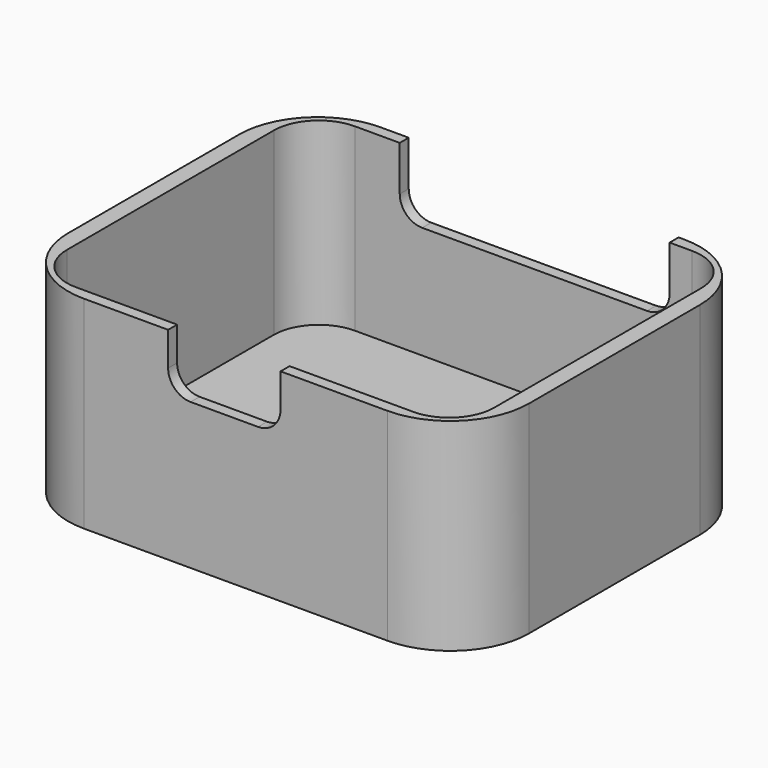
from build123d import *

# Parameters (mm, degrees)
PAD_DEPTH       = 18
POCKET_DEPTH    = 16
POCKET001_DEPTH = 5
POCKET002_DEPTH = 5


with BuildPart() as part:
    # Sketch → Pad (new body)
    with BuildSketch(Plane.XY):
        with BuildLine():
            Line((-13.5, -16.5), (13.5, -16.5))
            ThreePointArc((13.5, -16.5), (18.449747, -14.449747), (20.5, -9.5))
            Line((20.5, -9.5), (20.5, 9.5))
            ThreePointArc((20.5, 9.5), (18.449747, 14.449747), (13.5, 16.5))
            Line((13.5, 16.5), (-13.5, 16.5))
            ThreePointArc((-13.5, 16.5), (-18.449747, 14.449747), (-20.5, 9.5))
            Line((-20.5, 9.5), (-20.5, -9.5))
            ThreePointArc((-20.5, -9.5), (-18.449747, -14.449747), (-13.5, -16.5))
        make_face()
    extrude(amount=PAD_DEPTH)

    # Sketch001 (on Face10 of Pad) → Pocket (cut)
    with BuildSketch(Plane.XY.offset(18)):
        with BuildLine():
            Line((-19, 11.5), (-19, -11.5))
            ThreePointArc((-19, -11.5), (-17.828427, -14.328427), (-15, -15.5))
            Line((-15, -15.5), (15, -15.5))
            ThreePointArc((15, -15.5), (17.828427, -14.328427), (19, -11.5))
            Line((19, -11.5), (19, 11.5))
            ThreePointArc((19, 11.5), (17.828427, 14.328427), (15, 15.5))
            Line((15, 15.5), (-15, 15.5))
            ThreePointArc((-15, 15.5), (-17.828427, 14.328427), (-19, 11.5))
        make_face()
    extrude(amount=-POCKET_DEPTH, mode=Mode.SUBTRACT)

    # Sketch002 (on Face1 of Pocket) → Pocket001 (cut)
    with BuildSketch(Plane.XZ.offset(16.5)):
        with BuildLine():
            Line((-6, 18), (-6, 15))
            ThreePointArc((-6, 15), (-5.414214, 13.585786), (-4, 13))
            Line((-4, 13), (2, 13))
            ThreePointArc((2, 13), (3.414214, 13.585786), (4, 15))
            Line((4, 15), (4, 18))
            ThreePointArc((4, 18), (3.414214, 19.414214), (2, 20))
            Line((2, 20), (-4, 20))
            ThreePointArc((-4, 20), (-5.414214, 19.414214), (-6, 18))
        make_face()
    extrude(amount=-POCKET001_DEPTH, mode=Mode.SUBTRACT)

    # Sketch003 (on Face13 of Pocket001) → Pocket002 (cut)
    with BuildSketch(Plane(origin=(0, 16.5, 0), x_dir=(-1, 0, 0), z_dir=(0, 1, 0))):
        with BuildLine():
            Line((-13, 18), (-13, 14))
            ThreePointArc((-13, 14), (-12.414214, 12.585786), (-11, 12))
            Line((-11, 12), (9, 12))
            ThreePointArc((9, 12), (10.414214, 12.585786), (11, 14))
            Line((11, 14), (11, 18))
            ThreePointArc((11, 18), (10.414214, 19.414214), (9, 20))
            Line((9, 20), (-11, 20))
            ThreePointArc((-11, 20), (-12.414214, 19.414214), (-13, 18))
        make_face()
    extrude(amount=-POCKET002_DEPTH, mode=Mode.SUBTRACT)


solid = part.part
